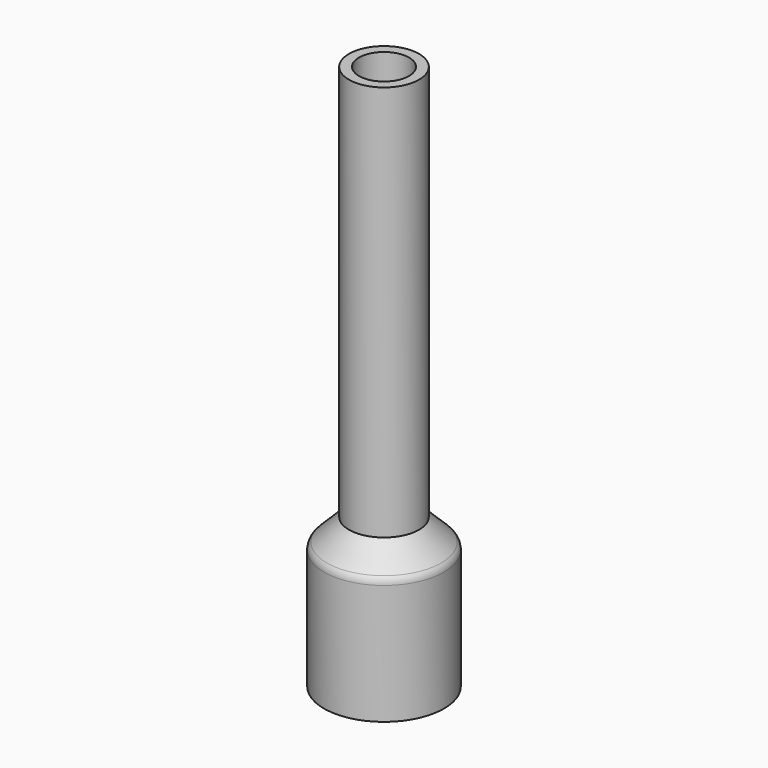
from build123d import *

# Parameters (mm, degrees)
THICKNESS_T = 1


with BuildPart() as part:
    # Sketch → Revolution (revolve)
    with BuildSketch(Plane.YZ):
        Polygon((0, 54.5), (2.5, 54.5), (2.5, 14.5), (5, 12), (5, 0), (0, 0), align=None)
    revolve(axis=Axis((0, 0, 0), (0, 0, 1)))

    # Thickness
    thickness_openings = [part.faces().sort_by_distance(p)[0] for p in [
        (0, 0, 54.5),
        (0, 0, 0),
    ]]
    offset(amount=THICKNESS_T, openings=thickness_openings)


solid = part.part
